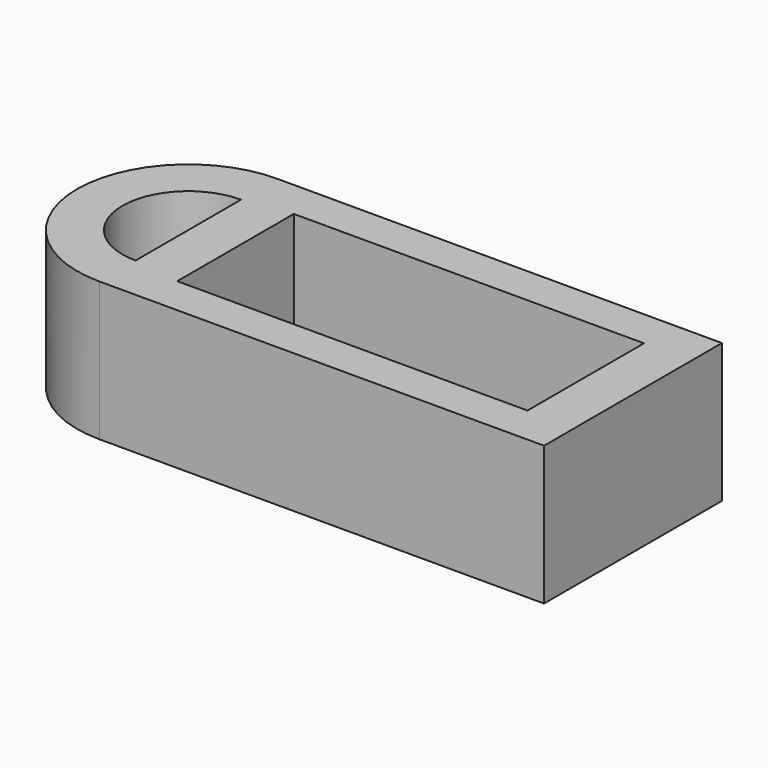
from build123d import *

# Parameters (mm, degrees)
F0_W     = 12.6
F0_H     = 5.24
F1_DEPTH = 5


with BuildPart() as f1:
    # F0 (on Top) → F1 (new body)
    with BuildSketch(Plane.XY):
        with Locations((6.15, 2.37)):
            Rectangle(F0_W, F0_H)
        with BuildLine():
            ThreePointArc((-1.85, 6.37), (-5.85, 2.37), (-1.85, -1.63))
            Line((-1.85, -1.63), (14.15, -1.63))
            Line((14.15, -1.63), (14.15, 6.37))
            Line((14.15, 6.37), (-1.85, 6.37))
        make_face()
        with BuildLine():
            Line((-1.85, 4.74), (-1.85, 0))
            ThreePointArc((-1.85, 0), (-4.22, 2.37), (-1.85, 4.74))
        make_face(mode=Mode.SUBTRACT)
        with Locations((6.15, 2.37)):
            Rectangle(F0_W, F0_H, mode=Mode.SUBTRACT)
    extrude(amount=F1_DEPTH)


solid = f1.part
